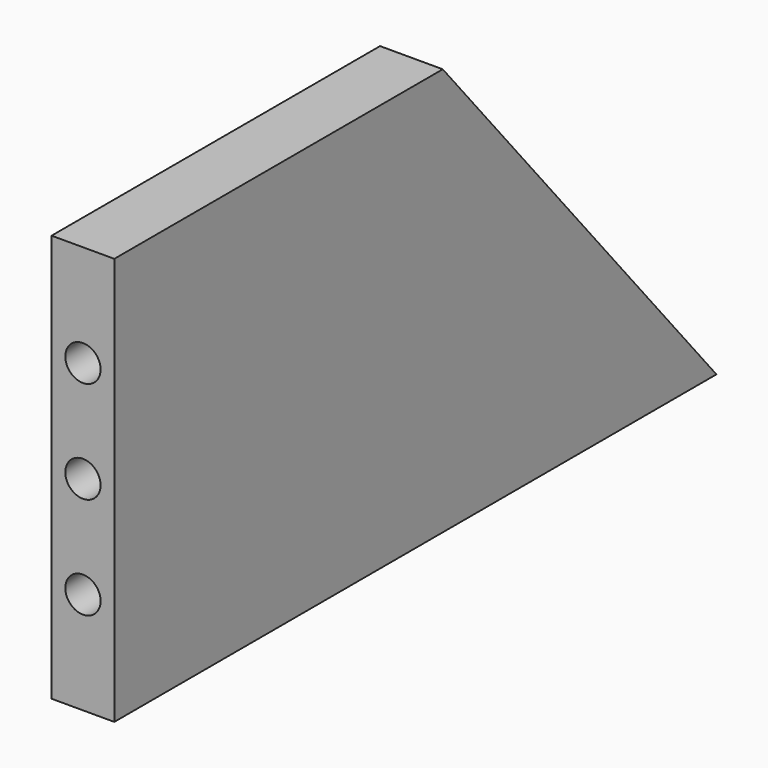
from build123d import *

# Parameters (mm, degrees)
F1_DEPTH = 6.35
F4_D     = 3.571875
F4_DEPTH = 12.7
F4_TIP   = 1.0730995118
F5_D     = 3.571875
F5_DEPTH = 12.7
F5_TIP   = 1.0730995118


with BuildPart() as f1:
    # F0 (on Right) → F1 (new body)
    with BuildSketch(Plane.YZ):
        Polygon((0, 41.275), (0, 0), (76.2, 0), (41.5661627232, 41.275), align=None)
    extrude(amount=F1_DEPTH)

    # F4
    with Locations(Plane.XZ):
        with Locations((3.175, 30.95625), (3.175, 10.31875), (3.175, 20.6375)):
            Hole(F4_D / 2, depth=F4_DEPTH)
            with Locations((0, 0, -(F4_DEPTH + F4_TIP / 2))):  # 118° drill point
                Cone(0, F4_D / 2, F4_TIP, mode=Mode.SUBTRACT)

    # F5
    with Locations(Plane(origin=(0, 44.7159955691, 37.5211753898), x_dir=(-1, 0, 0), z_dir=(0, 0.7660444431, 0.6427876097))):
        with Locations((-3.175, -8.5699014577), (-3.175, -22.0400729245), (-3.175, -35.5102443913)):
            Hole(F5_D / 2, depth=F5_DEPTH)
            with Locations((0, 0, -(F5_DEPTH + F5_TIP / 2))):  # 118° drill point
                Cone(0, F5_D / 2, F5_TIP, mode=Mode.SUBTRACT)


solid = f1.part
